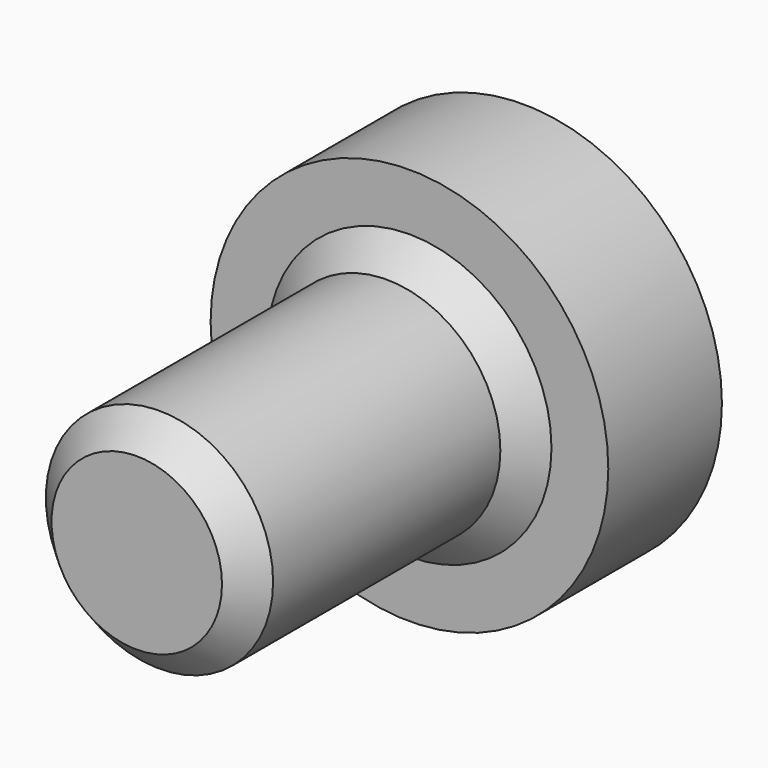
from build123d import *

# Parameters (mm, degrees)
F0_R     = 7
F1_DEPTH = 5
F2_R     = 1.1
F3_DEPTH = 5.001
F4_R     = 4
F5_DEPTH = 12
F6_SIZE  = 1


with BuildPart() as f1:
    # F0 (on Front) → F1 (new body)
    with BuildSketch(Plane.XZ):
        Circle(F0_R)
    extrude(amount=F1_DEPTH)

    # F2 (on face) → F3 (cut, through all)
    with BuildSketch(Plane.XZ.offset(5)):
        Circle(F2_R)
    extrude(amount=-F3_DEPTH, mode=Mode.SUBTRACT)

    # F4 (on face) → F5 (join)
    with BuildSketch(Plane.XZ.offset(5)):
        Circle(F4_R)
    extrude(amount=F5_DEPTH)

    # F6
    f6_edges = [f1.edges().sort_by_distance(p)[0] for p in [
        (-4, -17, 0),
        (-4, -5, 0),
    ]]
    chamfer(f6_edges, length=F6_SIZE)


solid = f1.part
